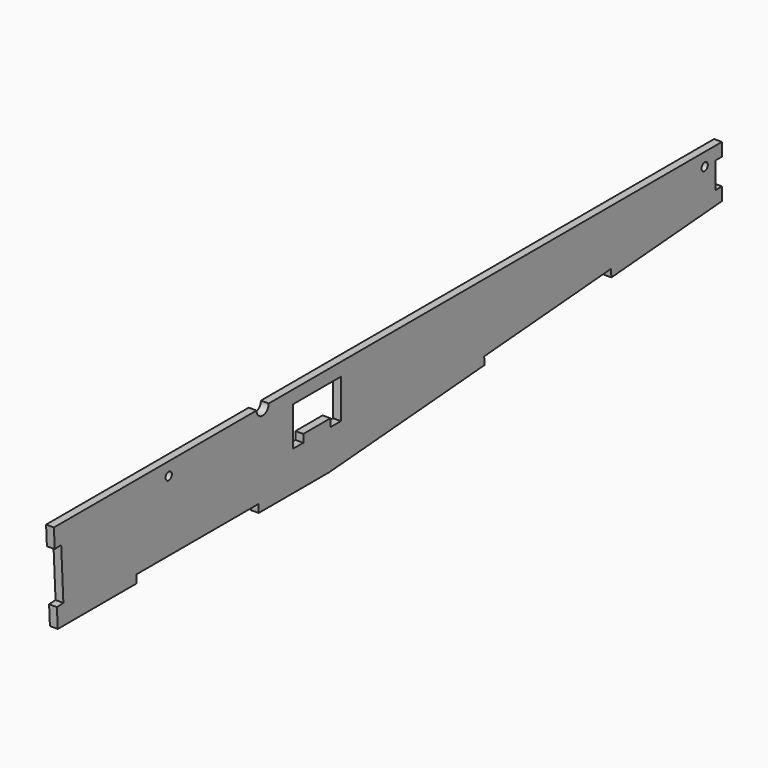
from build123d import *

# Parameters (mm, degrees)
F0_R     = 1.5
F1_DEPTH = 3


with BuildPart() as f1:
    # F0 (on Right) → F1 (new body)
    with BuildSketch(Plane.YZ):
        with BuildLine():
            Line((-144.238283, 7.012537), (-143.843249, -0.525151))
            Line((-143.843249, -0.525151), (-106.134906, -0.525151))
            Line((-106.134906, -0.525151), (-106.134906, 2.574849))
            Line((-106.134906, 2.574849), (-47.581803, 2.574849))
            Line((-47.581803, 2.574849), (-47.581803, -0.525151))
            Line((-47.581803, -0.525151), (-13.843249, -0.525151))
            Line((-13.843249, -0.525151), (60.658704, 5.413919))
            Line((60.658704, 5.413919), (60.420309, 8.404432))
            Line((60.420309, 8.404432), (121.137942, 13.261014))
            Line((121.137942, 13.261014), (121.377632, 10.254247))
            Line((121.377632, 10.254247), (174.322478, 14.474849))
            Line((174.322478, 14.474849), (174.322478, 19.474849))
            Line((174.322478, 19.474849), (171.222478, 19.474849))
            Line((171.222478, 19.474849), (171.222478, 29.474849))
            Line((171.222478, 29.474849), (174.322478, 29.474849))
            Line((174.322478, 29.474849), (174.322478, 34.474849))
            Line((174.322478, 34.474849), (164.322478, 34.474849))
            Line((164.322478, 34.474849), (-42.766357, 34.474849))
            ThreePointArc((-42.766357, 34.474849), (-45.677522, 31.563684), (-48.588687, 34.474849))
            Line((-48.588687, 34.474849), (-85.677522, 34.474849))
            Line((-85.677522, 34.474849), (-145.677522, 34.474849))
            Line((-145.677522, 34.474849), (-145.285002, 26.985128))
            Line((-145.285002, 26.985128), (-142.189251, 27.147369))
            Line((-142.189251, 27.147369), (-141.142531, 7.174779))
            Line((-141.142531, 7.174779), (-144.238283, 7.012537))
        make_face()
        Polygon((-31.22394, 17.474849), (-31.22394, 29.474849), (-8.22394, 29.474849), (-8.22394, 17.474849), (-8.22394, 14.474849), (-13.22394, 14.474849), (-13.22394, 17.474849), (-26.22394, 17.474849), (-26.22394, 14.474849), (-31.22394, 14.474849), align=None, mode=Mode.SUBTRACT)
        with Locations((-90.677522, 29.474849)):
            Circle(F0_R, mode=Mode.SUBTRACT)
        with Locations((166.069406, 29.474849)):
            Circle(F0_R, mode=Mode.SUBTRACT)
    extrude(amount=F1_DEPTH)


solid = f1.part
